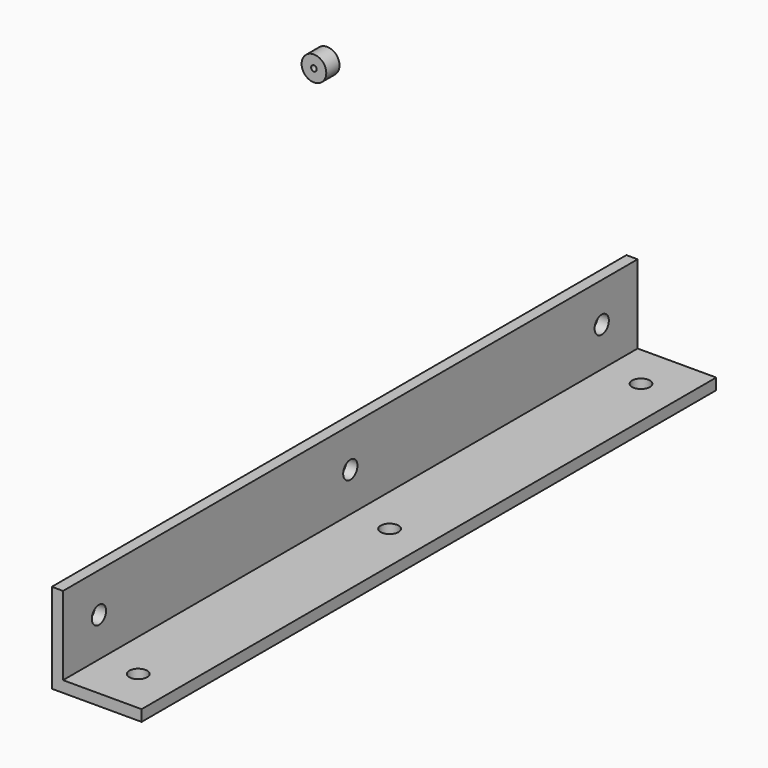
from build123d import *

# Parameters (mm, degrees)
F1_DEPTH       = 406.4
F4_D           = 10.0838
F4_DEPTH       = 20.6502
F4_TIP         = 3.0294791551
F4_ON_F2_D     = 10.0838
F4_ON_F2_DEPTH = 20.6502
F4_ON_F2_TIP   = 3.0294791551
F5_R           = 6.985
F5_R_2         = 1.5875
F6_DEPTH       = 9.3472


with BuildPart() as f1:
    # F0 (on Front) → F1 (new body)
    with BuildSketch(Plane.XZ):
        Polygon((0, 50.8), (0, 0), (50.8, 0), (50.8, 6.35), (6.35, 6.35), (6.35, 50.8), align=None)
    extrude(amount=F1_DEPTH)

    # F4
    with Locations(Plane.XY.offset(6.35)):
        with Locations((28.575, -381), (28.575, -203.2), (28.575, -25.4)):
            Hole(F4_D / 2, depth=F4_DEPTH)
            with Locations((0, 0, -(F4_DEPTH + F4_TIP / 2))):  # 118° drill point
                Cone(0, F4_D / 2, F4_TIP, mode=Mode.SUBTRACT)

    # F4 on F2
    with Locations(Plane.YZ.offset(6.35)):
        with Locations((-203.2, 28.575), (-25.4, 28.575), (-381, 28.575)):
            Hole(F4_ON_F2_D / 2, depth=F4_ON_F2_DEPTH)
            with Locations((0, 0, -(F4_ON_F2_DEPTH + F4_ON_F2_TIP / 2))):  # 118° drill point
                Cone(0, F4_ON_F2_D / 2, F4_ON_F2_TIP, mode=Mode.SUBTRACT)


with BuildPart() as f6:
    # F5 (on Front) → F6 (new body)
    with BuildSketch(Plane.XZ):
        with Locations((-169.3274974823, 92.5191566348)):
            Circle(F5_R)
        with Locations((-169.3274974823, 92.5191566348)):
            Circle(F5_R_2, mode=Mode.SUBTRACT)
    extrude(amount=F6_DEPTH)


solid = Compound([f1.part, f6.part])
